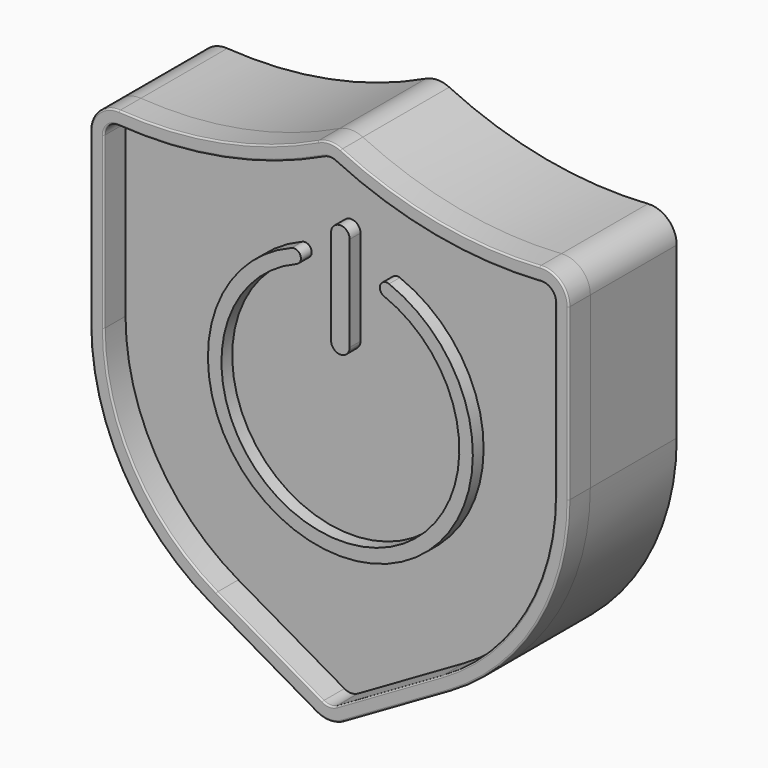
from build123d import *

# Parameters (mm, degrees)
F1_DEPTH = 25.4
F3_DEPTH = 6.35
F5_DEPTH = 3.175
F6_R     = 0.381


with BuildPart() as f1:
    # F0 (on Front) → F1 (new body)
    with BuildSketch(Plane.XZ):
        with BuildLine():
            ThreePointArc((-49.452183, 46.289197), (-54.219059, 44.59437), (-56.234455, 39.953927))
            Line((-56.234455, 39.953927), (-56.234455, 0))
            ThreePointArc((-56.234455, 0), (-48.700467, -28.117228), (-28.117228, -48.700467))
            Line((-28.117228, -48.700467), (-3.175, -63.100869))
            ThreePointArc((-3.175, -63.100869), (0, -63.951607), (3.175, -63.100869))
            Line((3.175, -63.100869), (28.117228, -48.700467))
            ThreePointArc((28.117228, -48.700467), (48.700467, -28.117228), (56.234455, 0))
            Line((56.234455, 0), (56.234455, 39.953927))
            ThreePointArc((56.234455, 39.953927), (54.219059, 44.59437), (49.452183, 46.289197))
            ThreePointArc((49.452183, 46.289197), (25.518453, 47.737164), (2.739611, 55.223445))
            ThreePointArc((2.739611, 55.223445), (0, 55.84483), (-2.739611, 55.223445))
            ThreePointArc((-2.739611, 55.223445), (-25.518453, 47.737164), (-49.452183, 46.289197))
        make_face()
    extrude(amount=-F1_DEPTH)


with BuildPart() as f3:
    # F2 (on face) → F3 (new body)
    with BuildSketch(Plane.XZ):
        with BuildLine():
            ThreePointArc((-2.739611, 55.223445), (-25.518453, 47.737164), (-49.452183, 46.289197))
            ThreePointArc((-49.452183, 46.289197), (-54.219059, 44.59437), (-56.234455, 39.953927))
            Line((-56.234455, 39.953927), (-56.234455, 0))
            ThreePointArc((-56.234455, 0), (-48.700467, -28.117228), (-28.117228, -48.700467))
            Line((-28.117228, -48.700467), (-3.175, -63.100869))
            ThreePointArc((-3.175, -63.100869), (0, -63.951607), (3.175, -63.100869))
            Line((3.175, -63.100869), (28.117228, -48.700467))
            ThreePointArc((28.117228, -48.700467), (48.700467, -28.117228), (56.234455, 0))
            Line((56.234455, 0), (56.234455, 39.953927))
            ThreePointArc((56.234455, 39.953927), (54.219059, 44.59437), (49.452183, 46.289197))
            ThreePointArc((49.452183, 46.289197), (25.518453, 47.737164), (2.739611, 55.223445))
            ThreePointArc((2.739611, 55.223445), (0, 55.84483), (-2.739611, 55.223445))
        make_face()
        with BuildLine():
            ThreePointArc((-53.059455, 39.953927), (-52.051757, 42.274149), (-49.668319, 43.121562))
            ThreePointArc((-49.668319, 43.121562), (-24.922013, 44.618689), (-1.369806, 52.359138))
            ThreePointArc((-1.369806, 52.359138), (0, 52.66983), (1.369806, 52.359138))
            ThreePointArc((1.369806, 52.359138), (24.922013, 44.618689), (49.668319, 43.121562))
            ThreePointArc((49.668319, 43.121562), (52.051757, 42.274149), (53.059455, 39.953927))
            Line((53.059455, 39.953927), (53.059455, 0))
            ThreePointArc((53.059455, 0), (45.950836, -26.529728), (26.529728, -45.950836))
            Line((26.529728, -45.950836), (1.5875, -60.351238))
            ThreePointArc((1.5875, -60.351238), (0, -60.776607), (-1.5875, -60.351238))
            Line((-1.5875, -60.351238), (-26.529728, -45.950836))
            ThreePointArc((-26.529728, -45.950836), (-45.950836, -26.529728), (-53.059455, 0))
            Line((-53.059455, 0), (-53.059455, 39.953927))
        make_face(mode=Mode.SUBTRACT)
    extrude(amount=F3_DEPTH)

    # F6
    f6_edges = [f3.edges().sort_by_distance(p)[0] for p in [
        (-25.518453, -6.35, 47.737164),
        (-54.219059, -6.35, 44.59437),
        (-56.234455, -6.35, 19.976963),
        (-24.922013, -6.35, 44.618689),
    ]]
    fillet(f6_edges, radius=F6_R)


with BuildPart() as f5:
    # F4 (on face) → F5 (new body)
    with BuildSketch(Plane.XZ):
        with BuildLine():
            ThreePointArc((10.286366, 26.013471), (0, -27.97338), (-10.286366, 26.013471))
            Line((-10.286366, 26.013471), (-11.453876, 28.96602))
            ThreePointArc((-11.453876, 28.96602), (0, -31.14838), (11.453876, 28.96602))
            Line((11.453876, 28.96602), (10.286366, 26.013471))
        make_face()
        with BuildLine():
            Line((-11.453876, 28.96602), (-10.286366, 26.013471))
            ThreePointArc((-10.286366, 26.013471), (-9.393846, 28.073501), (-11.453876, 28.96602))
        make_face()
        with BuildLine():
            ThreePointArc((2.190431, 35.183746), (0, 32.993316), (-2.190431, 35.183746))
            Line((-2.190431, 35.183746), (-2.190431, 12.797762))
            ThreePointArc((-2.190431, 12.797762), (0, 14.988192), (2.190431, 12.797762))
            Line((2.190431, 12.797762), (2.190431, 35.183746))
        make_face()
        with BuildLine():
            ThreePointArc((2.190431, 35.183746), (0, 37.374177), (-2.190431, 35.183746))
            ThreePointArc((-2.190431, 35.183746), (0, 32.993316), (2.190431, 35.183746))
        make_face()
        with BuildLine():
            ThreePointArc((11.453876, 28.96602), (9.393846, 28.073501), (10.286366, 26.013471))
            Line((10.286366, 26.013471), (11.453876, 28.96602))
        make_face()
        with BuildLine():
            ThreePointArc((2.190431, 12.797762), (0, 14.988192), (-2.190431, 12.797762))
            ThreePointArc((-2.190431, 12.797762), (0, 10.607331), (2.190431, 12.797762))
        make_face()
    extrude(amount=F5_DEPTH)


solid = Compound([f1.part, f3.part, f5.part])
